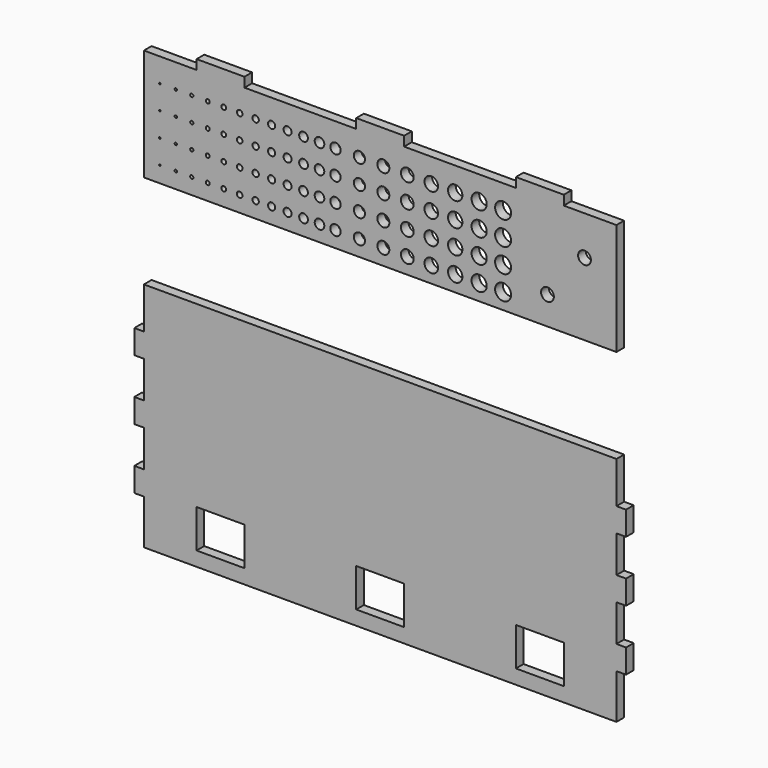
from build123d import *

# Parameters (mm, degrees)
F0_W     = 30
F0_H     = 24
F0_R     = 0.5
F0_R_2   = 0.75
F0_R_3   = 1
F0_R_4   = 1.25
F0_R_5   = 1.5
F0_R_6   = 1.75
F0_R_7   = 2
F0_R_8   = 2.25
F0_R_9   = 2.5
F0_R_10  = 2.75
F0_R_11  = 3
F0_R_12  = 3.25
F0_R_13  = 3.5
F0_R_14  = 3.75
F0_R_15  = 4
F0_R_16  = 4.25
F0_R_17  = 4.5
F0_R_18  = 4.75
F0_R_19  = 5
F1_DEPTH = 6


with BuildPart() as f1:
    # F0 (on Front) → F1 (new body)
    with BuildSketch(Plane.XZ):
        Polygon((195.201376, -85.190573), (-100.798624, -85.190573), (-100.798624, -111.190573), (-106.798624, -111.190573), (-106.798624, -126.190573), (-100.798624, -126.190573), (-100.798624, -149.190573), (-106.798624, -149.190573), (-106.798624, -164.190573), (-100.798624, -164.190573), (-100.798624, -187.190573), (-106.798624, -187.190573), (-106.798624, -202.190573), (-100.798624, -202.190573), (-100.798624, -230.190573), (195.201376, -230.190573), (195.201376, -202.190573), (201.201376, -202.190573), (201.201376, -187.190573), (195.201376, -187.190573), (195.201376, -164.190573), (201.201376, -164.190573), (201.201376, -149.190573), (195.201376, -149.190573), (195.201376, -126.190573), (201.201376, -126.190573), (201.201376, -111.190573), (195.201376, -111.190573), align=None)
        with Locations((-52.798624, -209.190573)):
            Rectangle(F0_W, F0_H, mode=Mode.SUBTRACT)
        with Locations((47.201376, -209.190573)):
            Rectangle(F0_W, F0_H, mode=Mode.SUBTRACT)
        with Locations((147.201376, -209.190573)):
            Rectangle(F0_W, F0_H, mode=Mode.SUBTRACT)
        Polygon((195.201376, -26.210577), (195.201376, 43.789423), (162.201376, 43.789423), (162.201376, 49.789423), (132.201376, 49.789423), (132.201376, 43.789423), (62.201376, 43.789423), (62.201376, 49.789423), (32.201376, 49.789423), (32.201376, 43.789423), (-37.798624, 43.789423), (-37.798624, 49.789423), (-67.798624, 49.789423), (-67.798624, 43.789423), (-100.798624, 43.789423), (-100.798624, -26.210577), align=None)
        with Locations((-90.798624, -16.210577)):
            Circle(F0_R, mode=Mode.SUBTRACT)
        with Locations((-80.798624, -16.210577)):
            Circle(F0_R_2, mode=Mode.SUBTRACT)
        with Locations((-70.798624, -16.210577)):
            Circle(F0_R_3, mode=Mode.SUBTRACT)
        with Locations((-90.798624, -1.210577)):
            Circle(F0_R, mode=Mode.SUBTRACT)
        with Locations((-90.798624, 13.789423)):
            Circle(F0_R, mode=Mode.SUBTRACT)
        with Locations((-80.798624, -1.210577)):
            Circle(F0_R_2, mode=Mode.SUBTRACT)
        with Locations((-70.798624, -1.210577)):
            Circle(F0_R_3, mode=Mode.SUBTRACT)
        with Locations((-80.798624, 13.789423)):
            Circle(F0_R_2, mode=Mode.SUBTRACT)
        with Locations((-70.798624, 13.789423)):
            Circle(F0_R_3, mode=Mode.SUBTRACT)
        with Locations((-60.798624, -16.210577)):
            Circle(F0_R_4, mode=Mode.SUBTRACT)
        with Locations((-50.798624, -16.210577)):
            Circle(F0_R_5, mode=Mode.SUBTRACT)
        with Locations((-40.798624, -16.210577)):
            Circle(F0_R_6, mode=Mode.SUBTRACT)
        with Locations((-30.798624, -16.210577)):
            Circle(F0_R_7, mode=Mode.SUBTRACT)
        with Locations((-60.798624, -1.210577)):
            Circle(F0_R_4, mode=Mode.SUBTRACT)
        with Locations((-50.798624, -1.210577)):
            Circle(F0_R_5, mode=Mode.SUBTRACT)
        with Locations((-60.798624, 13.789423)):
            Circle(F0_R_4, mode=Mode.SUBTRACT)
        with Locations((-50.798624, 13.789423)):
            Circle(F0_R_5, mode=Mode.SUBTRACT)
        with Locations((-40.798624, -1.210577)):
            Circle(F0_R_6, mode=Mode.SUBTRACT)
        with Locations((-30.798624, -1.210577)):
            Circle(F0_R_7, mode=Mode.SUBTRACT)
        with Locations((-40.798624, 13.789423)):
            Circle(F0_R_6, mode=Mode.SUBTRACT)
        with Locations((-30.798624, 13.789423)):
            Circle(F0_R_7, mode=Mode.SUBTRACT)
        with Locations((-90.798624, 28.789423)):
            Circle(F0_R, mode=Mode.SUBTRACT)
        with Locations((-80.798624, 28.789423)):
            Circle(F0_R_2, mode=Mode.SUBTRACT)
        with Locations((-70.798624, 28.789423)):
            Circle(F0_R_3, mode=Mode.SUBTRACT)
        with Locations((-60.798624, 28.789423)):
            Circle(F0_R_4, mode=Mode.SUBTRACT)
        with Locations((-50.798624, 28.789423)):
            Circle(F0_R_5, mode=Mode.SUBTRACT)
        with Locations((-40.798624, 28.789423)):
            Circle(F0_R_6, mode=Mode.SUBTRACT)
        with Locations((-30.798624, 28.789423)):
            Circle(F0_R_7, mode=Mode.SUBTRACT)
        with Locations((-20.798624, -16.210577)):
            Circle(F0_R_8, mode=Mode.SUBTRACT)
        with Locations((-10.798624, -16.210577)):
            Circle(F0_R_9, mode=Mode.SUBTRACT)
        with Locations((-0.798624, -16.210577)):
            Circle(F0_R_10, mode=Mode.SUBTRACT)
        with Locations((-20.798624, -1.210577)):
            Circle(F0_R_8, mode=Mode.SUBTRACT)
        with Locations((-10.798624, -1.210577)):
            Circle(F0_R_9, mode=Mode.SUBTRACT)
        with Locations((-20.798624, 13.789423)):
            Circle(F0_R_8, mode=Mode.SUBTRACT)
        with Locations((-10.798624, 13.789423)):
            Circle(F0_R_9, mode=Mode.SUBTRACT)
        with Locations((-0.798624, -1.210577)):
            Circle(F0_R_10, mode=Mode.SUBTRACT)
        with Locations((-0.798624, 13.789423)):
            Circle(F0_R_10, mode=Mode.SUBTRACT)
        with Locations((9.201376, -16.210577)):
            Circle(F0_R_11, mode=Mode.SUBTRACT)
        with Locations((19.201376, -16.210577)):
            Circle(F0_R_12, mode=Mode.SUBTRACT)
        with Locations((34.201376, -16.210577)):
            Circle(F0_R_13, mode=Mode.SUBTRACT)
        with Locations((9.201376, -1.210577)):
            Circle(F0_R_11, mode=Mode.SUBTRACT)
        with Locations((19.201376, -1.210577)):
            Circle(F0_R_12, mode=Mode.SUBTRACT)
        with Locations((9.201376, 13.789423)):
            Circle(F0_R_11, mode=Mode.SUBTRACT)
        with Locations((19.201376, 13.789423)):
            Circle(F0_R_12, mode=Mode.SUBTRACT)
        with Locations((34.201376, -1.210577)):
            Circle(F0_R_13, mode=Mode.SUBTRACT)
        with Locations((34.201376, 13.789423)):
            Circle(F0_R_13, mode=Mode.SUBTRACT)
        with Locations((-20.798624, 28.789423)):
            Circle(F0_R_8, mode=Mode.SUBTRACT)
        with Locations((-10.798624, 28.789423)):
            Circle(F0_R_9, mode=Mode.SUBTRACT)
        with Locations((-0.798624, 28.789423)):
            Circle(F0_R_10, mode=Mode.SUBTRACT)
        with Locations((9.201376, 28.789423)):
            Circle(F0_R_11, mode=Mode.SUBTRACT)
        with Locations((19.201376, 28.789423)):
            Circle(F0_R_12, mode=Mode.SUBTRACT)
        with Locations((34.201376, 28.789423)):
            Circle(F0_R_13, mode=Mode.SUBTRACT)
        with Locations((49.201376, -16.210577)):
            Circle(F0_R_14, mode=Mode.SUBTRACT)
        with Locations((64.201376, -16.210577)):
            Circle(F0_R_15, mode=Mode.SUBTRACT)
        with Locations((79.201376, -16.210577)):
            Circle(F0_R_16, mode=Mode.SUBTRACT)
        with Locations((49.201376, -1.210577)):
            Circle(F0_R_14, mode=Mode.SUBTRACT)
        with Locations((64.201376, -1.210577)):
            Circle(F0_R_15, mode=Mode.SUBTRACT)
        with Locations((49.201376, 13.789423)):
            Circle(F0_R_14, mode=Mode.SUBTRACT)
        with Locations((64.201376, 13.789423)):
            Circle(F0_R_15, mode=Mode.SUBTRACT)
        with Locations((79.201376, -1.210577)):
            Circle(F0_R_16, mode=Mode.SUBTRACT)
        with Locations((79.201376, 13.789423)):
            Circle(F0_R_16, mode=Mode.SUBTRACT)
        with Locations((94.201376, -16.210577)):
            Circle(F0_R_17, mode=Mode.SUBTRACT)
        with Locations((109.201376, -16.210577)):
            Circle(F0_R_18, mode=Mode.SUBTRACT)
        with Locations((124.201376, -16.210577)):
            Circle(F0_R_19, mode=Mode.SUBTRACT)
        with Locations((94.201376, -1.210577)):
            Circle(F0_R_17, mode=Mode.SUBTRACT)
        with Locations((94.201376, 13.789423)):
            Circle(F0_R_17, mode=Mode.SUBTRACT)
        with Locations((109.201376, -1.210577)):
            Circle(F0_R_18, mode=Mode.SUBTRACT)
        with Locations((124.201376, -1.210577)):
            Circle(F0_R_19, mode=Mode.SUBTRACT)
        with Locations((109.201376, 13.789423)):
            Circle(F0_R_18, mode=Mode.SUBTRACT)
        with Locations((124.201376, 13.789423)):
            Circle(F0_R_19, mode=Mode.SUBTRACT)
        with Locations((49.201376, 28.789423)):
            Circle(F0_R_14, mode=Mode.SUBTRACT)
        with Locations((64.201376, 28.789423)):
            Circle(F0_R_15, mode=Mode.SUBTRACT)
        with Locations((79.201376, 28.789423)):
            Circle(F0_R_16, mode=Mode.SUBTRACT)
        with Locations((94.201376, 28.789423)):
            Circle(F0_R_17, mode=Mode.SUBTRACT)
        with Locations((109.201376, 28.789423)):
            Circle(F0_R_18, mode=Mode.SUBTRACT)
        with Locations((124.201376, 28.789423)):
            Circle(F0_R_19, mode=Mode.SUBTRACT)
        with Locations((151.992381, -8.554147)):
            Circle(F0_R_15, mode=Mode.SUBTRACT)
        with Locations((175.201376, 19.275144)):
            Circle(F0_R_15, mode=Mode.SUBTRACT)
    extrude(amount=F1_DEPTH)


solid = f1.part
